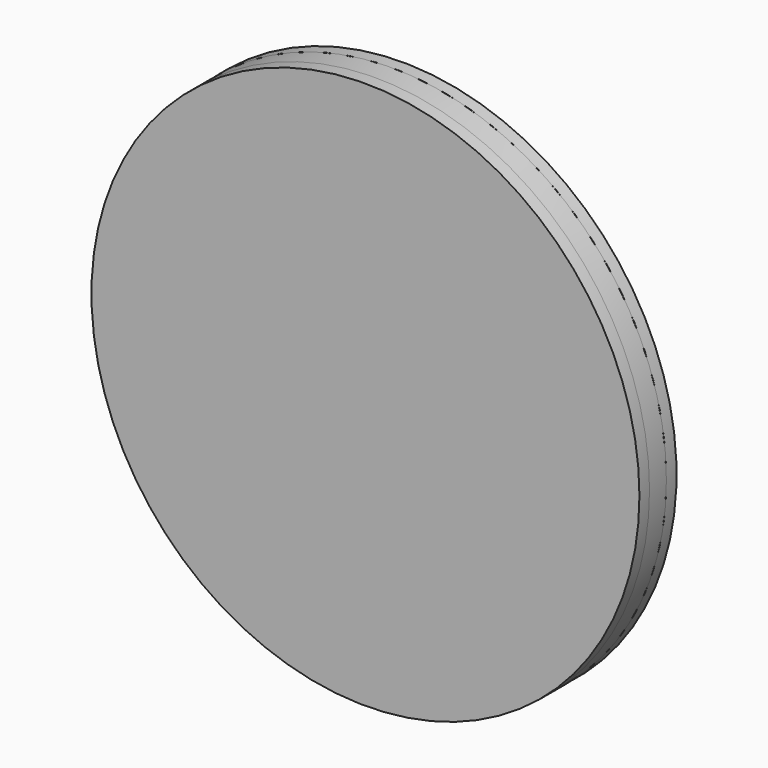
from build123d import *

# Parameters (mm, degrees)
F0_R     = 82.55
F0_R_2   = 9.525
F0_R_3   = 1.5875
F1_DEPTH = 6.35
F2_R     = 1.5875
F3_DEPTH = 25.4
F4_R     = 82.55
F5_DEPTH = 3.81
F6_R     = 82.55
F7_DEPTH = 3.81


with BuildPart() as f1:
    # F0 (on Front) → F1 (new body)
    with BuildSketch(Plane.XZ):
        Circle(F0_R)
        with Locations((-49.3914086659, -49.3914086659)):
            Circle(F0_R_2, mode=Mode.SUBTRACT)
        with Locations((-26.7304377507, -64.5329853459)):
            Circle(F0_R_2, mode=Mode.SUBTRACT)
        with Locations((-64.5329853459, -26.7304377507)):
            Circle(F0_R_2, mode=Mode.SUBTRACT)
        with Locations((0, -69.85)):
            Circle(F0_R_2, mode=Mode.SUBTRACT)
        with Locations((26.7304377507, -64.5329853459)):
            Circle(F0_R_2, mode=Mode.SUBTRACT)
        with Locations((49.3914086659, -49.3914086659)):
            Circle(F0_R_2, mode=Mode.SUBTRACT)
        with Locations((64.5329853459, -26.7304377507)):
            Circle(F0_R_2, mode=Mode.SUBTRACT)
        with Locations((-69.85, 0)):
            Circle(F0_R_2, mode=Mode.SUBTRACT)
        with Locations((-64.5329853459, 26.7304377507)):
            Circle(F0_R_2, mode=Mode.SUBTRACT)
        with Locations((-49.3914086659, 49.3914086659)):
            Circle(F0_R_2, mode=Mode.SUBTRACT)
        with Locations((-26.7304377507, 64.5329853459)):
            Circle(F0_R_2, mode=Mode.SUBTRACT)
        with BuildLine():
            ThreePointArc((6.35, 56.7961266285), (42.5970949714, 38.1), (57.15, 0))
            ThreePointArc((57.15, 0), (55.9401663647, -11.6970204363), (52.3618884659, -22.898802071))
            ThreePointArc((52.3618884659, -22.898802071), (49.493351807, -28.5750000334), (46.0118884968, -33.8973246283))
            ThreePointArc((46.0118884968, -33.8973246283), (-3.86e-08, -57.15), (-46.0118885426, -33.8973245661))
            ThreePointArc((-46.0118885426, -33.8973245661), (-49.4933518456, -28.5749999666), (-52.3618884968, -22.8988020002))
            ThreePointArc((-52.3618884968, -22.8988020002), (-49.493351807, 28.5750000334), (-6.3499999233, 56.7961266371))
            ThreePointArc((-6.3499999233, 56.7961266371), (3.86e-08, 57.15), (6.35, 56.7961266285))
        make_face(mode=Mode.SUBTRACT)
        with Locations((69.85, 0)):
            Circle(F0_R_2, mode=Mode.SUBTRACT)
        with Locations((64.5329853459, 26.7304377507)):
            Circle(F0_R_2, mode=Mode.SUBTRACT)
        with Locations((0, 69.85)):
            Circle(F0_R_2, mode=Mode.SUBTRACT)
        with Locations((26.7304377507, 64.5329853459)):
            Circle(F0_R_2, mode=Mode.SUBTRACT)
        with Locations((49.3914086659, 49.3914086659)):
            Circle(F0_R_2, mode=Mode.SUBTRACT)
        Circle(F0_R)
        with Locations((-49.3914086659, -49.3914086659)):
            Circle(F0_R_2, mode=Mode.SUBTRACT)
        with Locations((-26.7304377507, -64.5329853459)):
            Circle(F0_R_2, mode=Mode.SUBTRACT)
        with Locations((-64.5329853459, -26.7304377507)):
            Circle(F0_R_2, mode=Mode.SUBTRACT)
        with Locations((0, -69.85)):
            Circle(F0_R_2, mode=Mode.SUBTRACT)
        with Locations((26.7304377507, -64.5329853459)):
            Circle(F0_R_2, mode=Mode.SUBTRACT)
        with Locations((49.3914086659, -49.3914086659)):
            Circle(F0_R_2, mode=Mode.SUBTRACT)
        with Locations((64.5329853459, -26.7304377507)):
            Circle(F0_R_2, mode=Mode.SUBTRACT)
        with Locations((-69.85, 0)):
            Circle(F0_R_2, mode=Mode.SUBTRACT)
        with Locations((-64.5329853459, 26.7304377507)):
            Circle(F0_R_2, mode=Mode.SUBTRACT)
        with Locations((-49.3914086659, 49.3914086659)):
            Circle(F0_R_2, mode=Mode.SUBTRACT)
        with Locations((-26.7304377507, 64.5329853459)):
            Circle(F0_R_2, mode=Mode.SUBTRACT)
        with BuildLine():
            ThreePointArc((6.35, 56.7961266285), (42.5970949714, 38.1), (57.15, 0))
            ThreePointArc((57.15, 0), (55.9401663647, -11.6970204363), (52.3618884659, -22.898802071))
            ThreePointArc((52.3618884659, -22.898802071), (49.493351807, -28.5750000334), (46.0118884968, -33.8973246283))
            ThreePointArc((46.0118884968, -33.8973246283), (-3.86e-08, -57.15), (-46.0118885426, -33.8973245661))
            ThreePointArc((-46.0118885426, -33.8973245661), (-49.4933518456, -28.5749999666), (-52.3618884968, -22.8988020002))
            ThreePointArc((-52.3618884968, -22.8988020002), (-49.493351807, 28.5750000334), (-6.3499999233, 56.7961266371))
            ThreePointArc((-6.3499999233, 56.7961266371), (3.86e-08, 57.15), (6.35, 56.7961266285))
        make_face(mode=Mode.SUBTRACT)
        with Locations((69.85, 0)):
            Circle(F0_R_2, mode=Mode.SUBTRACT)
        with Locations((64.5329853459, 26.7304377507)):
            Circle(F0_R_2, mode=Mode.SUBTRACT)
        with Locations((0, 69.85)):
            Circle(F0_R_2, mode=Mode.SUBTRACT)
        with Locations((26.7304377507, 64.5329853459)):
            Circle(F0_R_2, mode=Mode.SUBTRACT)
        with Locations((49.3914086659, 49.3914086659)):
            Circle(F0_R_2, mode=Mode.SUBTRACT)
        with BuildLine():
            ThreePointArc((19.2373467175, 0), (15.6880951741, 11.133695637), (6.35, 18.1591026411))
            ThreePointArc((6.35, 18.1591026411), (4.06e-08, 19.2373467175), (-6.3499999233, 18.1591026679))
            ThreePointArc((-6.3499999233, 18.1591026679), (-16.6600309384, 9.6186733939), (-18.9012441971, -3.5802900065))
            ThreePointArc((-18.9012441971, -3.5802900065), (-16.6600309791, -9.6186733235), (-12.5512442587, -14.5788125815))
            ThreePointArc((-12.5512442587, -14.5788125815), (-4.06e-08, -19.2373467175), (12.5512441971, -14.5788126346))
            ThreePointArc((12.5512441971, -14.5788126346), (16.6600309384, -9.6186733939), (18.901244182, -3.5802900864))
            ThreePointArc((18.901244182, -3.5802900864), (19.1531367725, -1.798015713), (19.2373467175, 0))
        make_face()
        Circle(F0_R_3, mode=Mode.SUBTRACT)
        with BuildLine():
            Line((6.35, 18.1591026411), (6.35, 56.7961266285))
            ThreePointArc((6.35, 56.7961266285), (3.86e-08, 57.15), (-6.3499999233, 56.7961266371))
            Line((-6.3499999233, 56.7961266371), (-6.3499999233, 18.1591026679))
            ThreePointArc((-6.3499999233, 18.1591026679), (4.06e-08, 19.2373467175), (6.35, 18.1591026411))
        make_face()
        with BuildLine():
            Line((-18.9012441971, -3.5802900065), (-52.3618884968, -22.8988020002))
            ThreePointArc((-52.3618884968, -22.8988020002), (-49.4933518456, -28.5749999666), (-46.0118885426, -33.8973245661))
            Line((-46.0118885426, -33.8973245661), (-12.5512442587, -14.5788125815))
            ThreePointArc((-12.5512442587, -14.5788125815), (-16.6600309791, -9.6186733235), (-18.9012441971, -3.5802900065))
        make_face()
        with BuildLine():
            ThreePointArc((46.0118884968, -33.8973246283), (49.493351807, -28.5750000334), (52.3618884659, -22.898802071))
            Line((52.3618884659, -22.898802071), (18.901244182, -3.5802900864))
            ThreePointArc((18.901244182, -3.5802900864), (16.6600309384, -9.6186733939), (12.5512441971, -14.5788126346))
            Line((12.5512441971, -14.5788126346), (46.0118884968, -33.8973246283))
        make_face()
    extrude(amount=F1_DEPTH)

    # F2 (on face) → F3 (cut)
    with BuildSketch(Plane.XZ.offset(6.35)):
        Circle(F2_R)
    extrude(amount=-F3_DEPTH, mode=Mode.SUBTRACT)


with BuildPart() as f5:
    # F4 (on face) → F5 (new body)
    with BuildSketch(Plane.XZ.offset(6.35)):
        Circle(F4_R)
    extrude(amount=F5_DEPTH)


with BuildPart() as f7:
    # F6 (on face) → F7 (new body)
    with BuildSketch(Plane(origin=(0, 0, 0), x_dir=(-1, 0, 0), z_dir=(0, 1, 0))):
        Circle(F6_R)
    extrude(amount=F7_DEPTH)


solid = Compound([f1.part, f5.part, f7.part])
